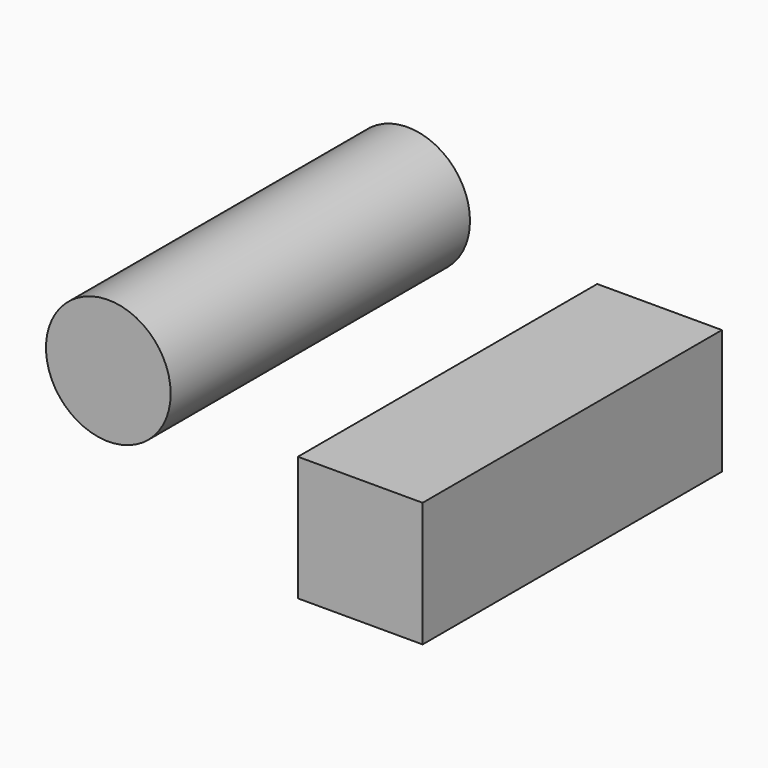
from build123d import *

# Parameters (mm, degrees)
F0_R     = 12.7
F0_W     = 25.4
F0_H     = 25.4
F1_DEPTH = 76.2


with BuildPart() as f1:
    # F0 (on Front) → F1 (new body)
    with BuildSketch(Plane.XZ):
        with Locations((-38.611792, 28.262241)):
            Circle(F0_R)
        with Locations((12.7, 12.7)):
            Rectangle(F0_W, F0_H)
    extrude(amount=F1_DEPTH)


solid = f1.part
